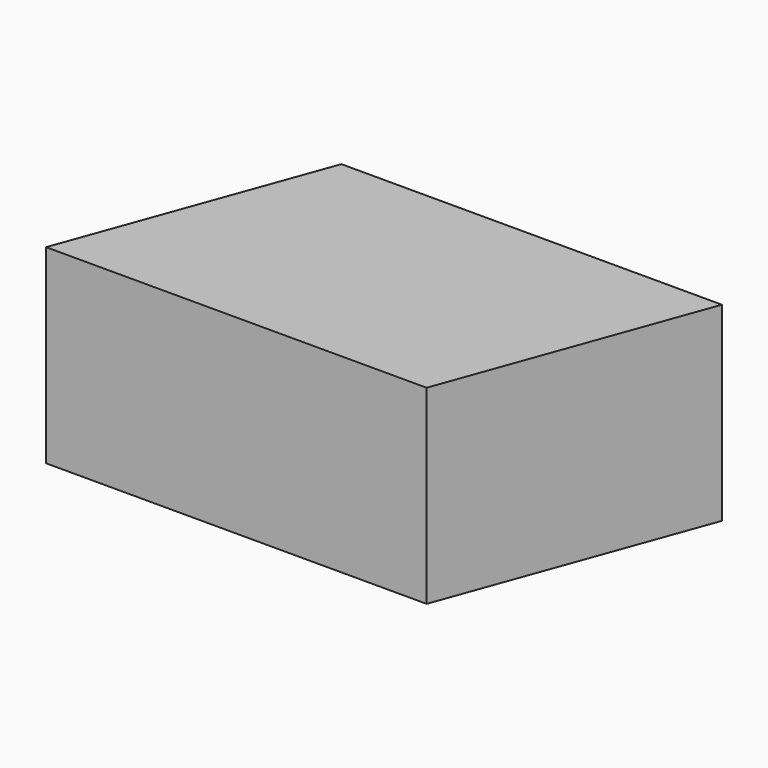
from build123d import *

# Parameters (mm, degrees)
PAD_DEPTH = 30


with BuildPart() as part:
    # Sketch → Pad (new body)
    with BuildSketch(Plane.XY):
        Polygon((22.558809, 48), (82.558809, 48), (68, 8), (8, 8), align=None)
    extrude(amount=PAD_DEPTH)


solid = part.part
